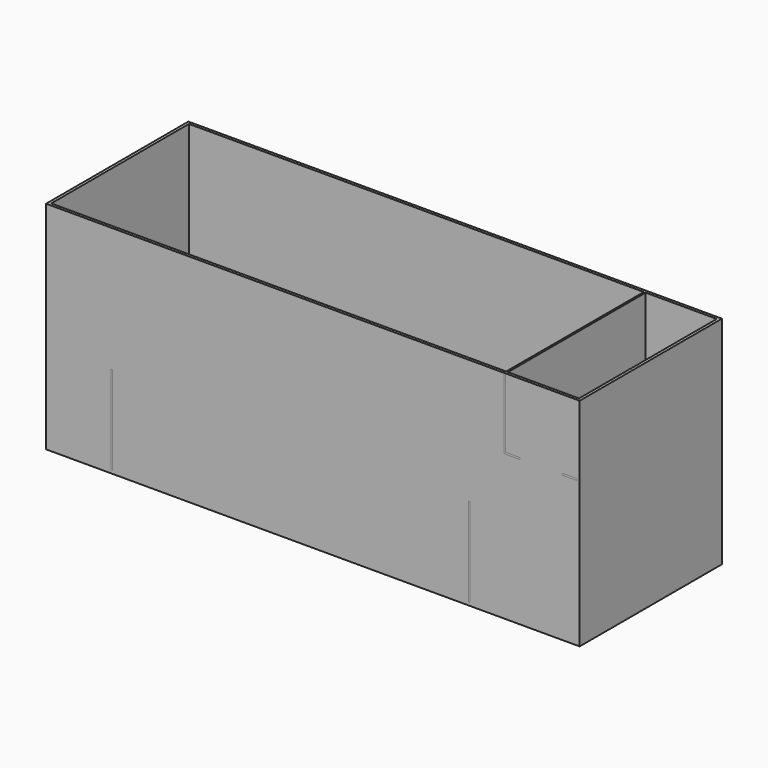
from build123d import *

# Parameters (mm, degrees)
F0_W     = 1500
F0_H     = 500
F0_W_2   = 1484
F0_H_2   = 484
F1_DEPTH = 8
F2_DEPTH = 600
F4_W     = 5
F4_H     = 195
F4_W_2   = 40
F4_H_2   = 5
F4_H_3   = 250
F5_DEPTH = 492


with BuildPart() as f1:
    # F0 (on Top) → F1 (new body)
    with BuildSketch(Plane.XY):
        Rectangle(F0_W, F0_H)
        Rectangle(F0_W_2, F0_H_2, mode=Mode.SUBTRACT)
        Rectangle(F0_W_2, F0_H_2)
    extrude(amount=-F1_DEPTH)


with BuildPart() as f2:
    # F0 (on Top) → F2 (new body)
    with BuildSketch(Plane.XY):
        Rectangle(F0_W, F0_H)
        Rectangle(F0_W_2, F0_H_2, mode=Mode.SUBTRACT)
    extrude(amount=F2_DEPTH)


with BuildPart() as f1_1:
    add(f1.part)

    # F3: union F2
    add(f2.part)


with BuildPart() as f5:
    # F4 (on face) → F5 (new body, through all)
    with BuildSketch(Plane.XZ.offset(250)):
        with Locations((539.5, 502.5)):
            Rectangle(F4_W, F4_H)
        with Locations((562, 402.5)):
            Rectangle(F4_W_2, F4_H_2)
        with Locations((539.5, 402.5)):
            Rectangle(F4_W, F4_H_2)
        with Locations((722.014349, 402.5)):
            Rectangle(F4_W_2, F4_H_2)
        with Locations((439.5, 125)):
            Rectangle(F4_W, F4_H_3)
        with Locations((-565.5, 125)):
            Rectangle(F4_W, F4_H_3)
    extrude(amount=-F5_DEPTH)


solid = Compound([f1_1.part, f5.part])
